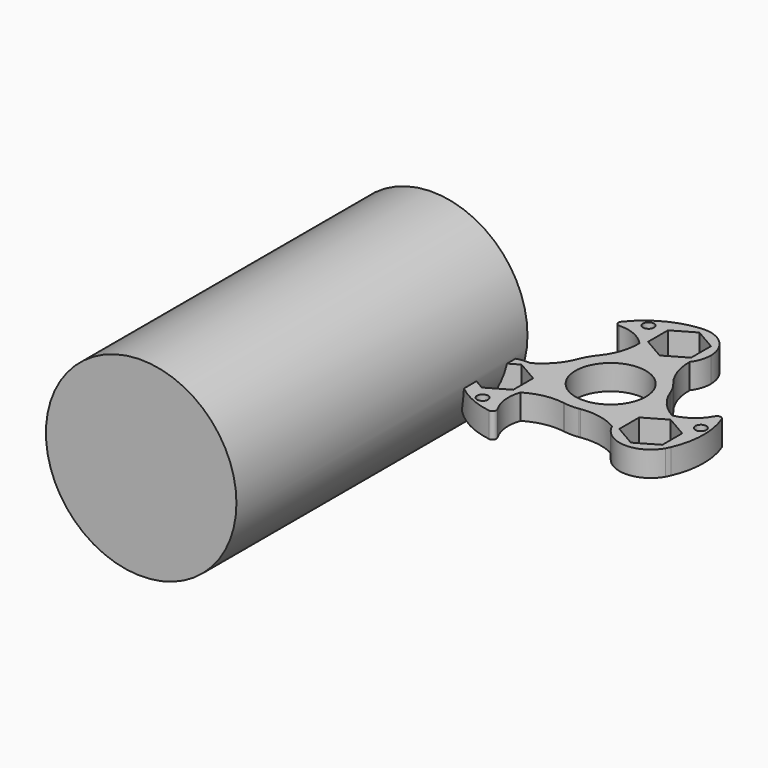
from build123d import *

# Parameters (mm, degrees)
F0_R     = 1.78928
F0_R_2   = 11.43
F1_DEPTH = 8.128
F2_R     = 1.27
F3_R     = 30.929844
F4_DEPTH = 118.11


with BuildPart() as f1:
    # F0 (on Top) → F1 (new body)
    with BuildSketch(Plane.XY):
        with BuildLine():
            ThreePointArc((12.152307, 10.214552), (9.141542, 15.705526), (8.1629, 21.890813))
            ThreePointArc((8.1629, 21.890813), (0, 17.78), (-8.1629, 21.890813))
            ThreePointArc((-8.1629, 21.890813), (-9.120339, 15.730112), (-12.113273, 10.260811))
            ThreePointArc((-12.113273, 10.260811), (0.030263, 15.874971), (12.152307, 10.214552))
        make_face()
        with BuildLine():
            ThreePointArc((10.16, 27.94), (7.184205, 35.124205), (0, 38.1))
            ThreePointArc((0, 38.1), (-0.774338, 38.052294), (-1.546912, 37.981547))
            ThreePointArc((-1.546912, 37.981547), (-9.396704, 31.80362), (-8.1629, 21.890813))
            ThreePointArc((-8.1629, 21.890813), (0, 17.78), (8.1629, 21.890813))
            ThreePointArc((8.1629, 21.890813), (9.647815, 24.754836), (10.16, 27.94))
        make_face()
        Polygon((-6.985, 31.972792), (0, 36.005583), (6.985, 31.972792), (6.985, 23.907208), (0, 19.874417), (-6.985, 23.907208), align=None, mode=Mode.SUBTRACT)
        with BuildLine():
            ThreePointArc((-8.1629, 21.890813), (-9.396704, 31.80362), (-1.546912, 37.981547))
            ThreePointArc((-1.546912, 37.981547), (-12.612928, 34.15479), (-20.884238, 25.867077))
            ThreePointArc((-20.884238, 25.867077), (-13.967457, 25.658122), (-8.1629, 21.890813))
        make_face()
        with Locations((-12.453423, 30.944496)):
            Circle(F0_R, mode=Mode.SUBTRACT)
        with BuildLine():
            ThreePointArc((2.348846, -15.700272), (2.559176, -15.664647), (2.769908, -15.631482))
            ThreePointArc((2.769908, -15.631482), (12.165277, -10.199101), (15.875, 0))
            ThreePointArc((15.875, 0), (15.640204, 2.720232), (14.942759, 5.359997))
            ThreePointArc((14.942759, 5.359997), (14.855473, 5.587409), (14.771257, 5.815976))
            ThreePointArc((14.771257, 5.815976), (13.748153, 7.9375), (12.422412, 9.884296))
            ThreePointArc((12.422412, 9.884296), (12.286395, 10.048635), (12.152307, 10.214552))
            ThreePointArc((12.152307, 10.214552), (0.030263, 15.874971), (-12.113273, 10.260811))
            ThreePointArc((-12.113273, 10.260811), (-12.266574, 10.071512), (-12.422412, 9.884296))
            ThreePointArc((-12.422412, 9.884296), (-13.748153, 7.9375), (-14.771257, 5.815976))
            ThreePointArc((-14.771257, 5.815976), (-14.845571, 5.616012), (-14.922215, 5.41693))
            ThreePointArc((-14.922215, 5.41693), (-13.76326, -7.911277), (-2.829486, -15.620808))
            ThreePointArc((-2.829486, -15.620808), (-2.588898, -15.658921), (-2.348846, -15.700272))
            ThreePointArc((-2.348846, -15.700272), (0, -15.875), (2.348846, -15.700272))
        make_face()
        Circle(F0_R_2, mode=Mode.SUBTRACT)
        with BuildLine():
            ThreePointArc((-23.03945, -3.876128), (-32.691442, -8.39633), (-32.995568, -19.05))
            ThreePointArc((-32.995568, -19.05), (-32.567084, -19.696744), (-32.119528, -20.330439))
            ThreePointArc((-32.119528, -20.330439), (-22.844391, -24.039594), (-14.87655, -18.014685))
            ThreePointArc((-14.87655, -18.014685), (-14.248915, -16.035474), (-14.03675, -13.97))
            ThreePointArc((-14.03675, -13.97), (-16.614409, -7.207329), (-23.03945, -3.876128))
        make_face()
        Polygon((-17.21175, -9.937208), (-17.21175, -18.002792), (-24.19675, -22.035583), (-31.18175, -18.002792), (-31.18175, -9.937208), (-24.19675, -5.904417), align=None, mode=Mode.SUBTRACT)
        with BuildLine():
            ThreePointArc((-14.922215, 5.41693), (-18.172156, 0.064044), (-23.03945, -3.876128))
            ThreePointArc((-23.03945, -3.876128), (-16.614409, -7.207329), (-14.03675, -13.97))
            ThreePointArc((-14.03675, -13.97), (-14.248915, -16.035474), (-14.87655, -18.014685))
            ThreePointArc((-14.87655, -18.014685), (-9.062508, -15.763501), (-2.829486, -15.620808))
            ThreePointArc((-2.829486, -15.620808), (-13.76326, -7.911277), (-14.922215, 5.41693))
        make_face()
        with BuildLine():
            ThreePointArc((-14.87655, -18.014685), (-22.844391, -24.039594), (-32.119528, -20.330439))
            ThreePointArc((-32.119528, -20.330439), (-23.272452, -28.000511), (-11.959427, -31.019819))
            ThreePointArc((-11.959427, -31.019819), (-15.236857, -24.925234), (-14.87655, -18.014685))
        make_face()
        with Locations((-20.572009, -26.257229)):
            Circle(F0_R, mode=Mode.SUBTRACT)
        with BuildLine():
            ThreePointArc((2.769908, -15.631482), (9.030614, -15.76957), (14.87655, -18.014685))
            ThreePointArc((14.87655, -18.014685), (15.397932, -8.89), (23.03945, -3.876128))
            ThreePointArc((23.03945, -3.876128), (18.182846, 0.033389), (14.942759, 5.359997))
            ThreePointArc((14.942759, 5.359997), (15.640204, 2.720232), (15.875, 0))
            ThreePointArc((15.875, 0), (12.165277, -10.199101), (2.769908, -15.631482))
        make_face()
        with BuildLine():
            ThreePointArc((14.87655, -18.014685), (23.617156, -24.113455), (32.995568, -19.05))
            ThreePointArc((32.995568, -19.05), (33.341423, -18.355551), (33.666441, -17.651108))
            ThreePointArc((33.666441, -17.651108), (34.182681, -15.842637), (34.35675, -13.97))
            ThreePointArc((34.35675, -13.97), (30.95942, -6.38766), (23.03945, -3.876128))
            ThreePointArc((23.03945, -3.876128), (15.397932, -8.89), (14.87655, -18.014685))
        make_face()
        Polygon((17.21175, -9.937208), (24.19675, -5.904417), (31.18175, -9.937208), (31.18175, -18.002792), (24.19675, -22.035583), (17.21175, -18.002792), align=None, mode=Mode.SUBTRACT)
        with BuildLine():
            ThreePointArc((34.35675, -13.97), (34.182681, -15.842637), (33.666441, -17.651108))
            ThreePointArc((33.666441, -17.651108), (35.88538, -6.154279), (32.843664, 5.152742))
            ThreePointArc((32.843664, 5.152742), (29.204314, -0.732888), (23.03945, -3.876128))
            ThreePointArc((23.03945, -3.876128), (30.95942, -6.38766), (34.35675, -13.97))
        make_face()
        with Locations((33.025431, -4.687268)):
            Circle(F0_R, mode=Mode.SUBTRACT)
    extrude(amount=F1_DEPTH)

    # F2
    f2_edges = [f1.edges().sort_by_distance(p)[0] for p in [
        (-20.884238, 25.867077, 4.064),
        (-11.959427, -31.019819, 4.064),
        (32.843664, 5.152742, 4.064),
    ]]
    fillet(f2_edges, radius=F2_R)

    # F3 (on Front) → F4 (join)
    with BuildSketch(Plane.XZ):
        with Locations((-57.932083, 13.224379)):
            Circle(F3_R)
    extrude(amount=F4_DEPTH)


solid = f1.part
